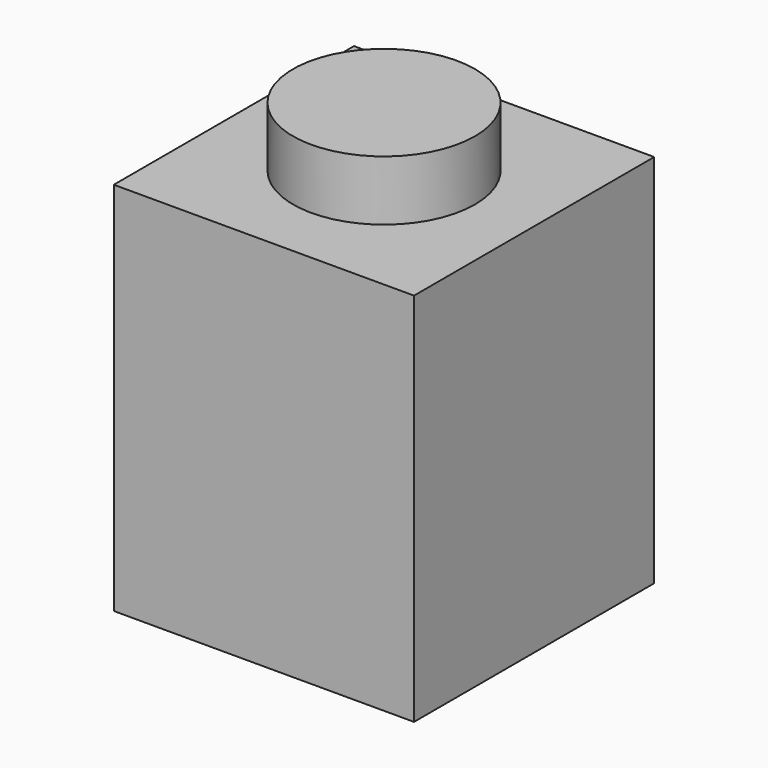
from build123d import *

# Parameters (mm, degrees)
F0_W     = 8
F0_H     = 8
F1_DEPTH = 10
F2_T     = -1.5
F3_R     = 2.425
F4_DEPTH = 1.6


with BuildPart() as f1:
    # F0 (on Top) → F1 (new body)
    with BuildSketch(Plane.XY):
        Rectangle(F0_W, F0_H)
    extrude(amount=F1_DEPTH)

    # F2
    f2_openings = [f1.faces().sort_by_distance(p)[0] for p in [
        (0, 0, 0),
    ]]
    offset(amount=F2_T, openings=f2_openings)

    # F3 (on face) → F4 (join)
    with BuildSketch(Plane.XY.offset(10)):
        Circle(F3_R)
    extrude(amount=F4_DEPTH)


solid = f1.part
